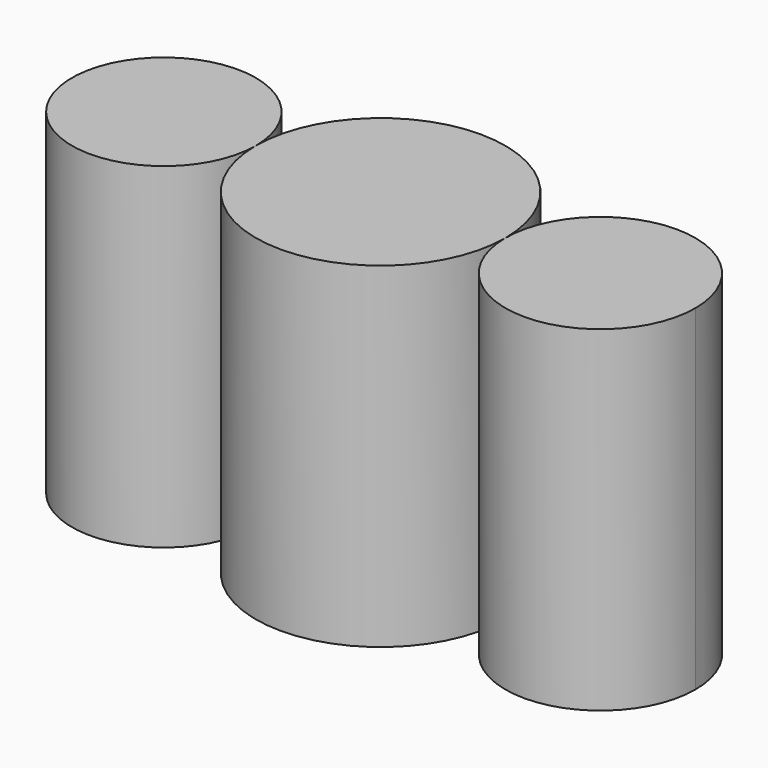
from build123d import *

# Parameters (mm, degrees)
F0_R     = 51.166536
F1_DEPTH = 186.846131


with BuildPart() as f1:
    # F0 (on Top) → F1 (new body)
    with BuildSketch(Plane.XY):
        with BuildLine():
            ThreePointArc((-69.453432, 0), (0, -69.453432), (69.453432, 0))
            ThreePointArc((69.453432, 0), (0, 69.453432), (-69.453432, 0))
        make_face()
        with Locations((-120.619968, 0)):
            Circle(F0_R)
        with BuildLine():
            ThreePointArc((175.165223, 0), (122.309327, 52.855895), (69.453432, 0))
            ThreePointArc((69.453432, 0), (122.309327, -52.855895), (175.165223, 0))
        make_face()
    extrude(amount=F1_DEPTH)


solid = f1.part
